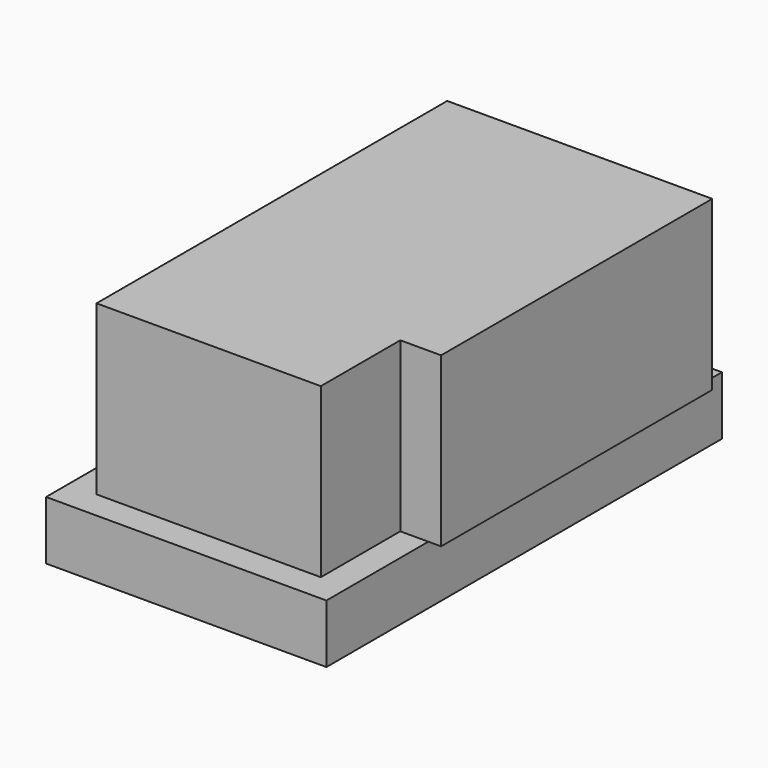
from build123d import *

# Parameters (mm, degrees)
F1_DEPTH = 419.1
F3_DEPTH = 146.05


with BuildPart() as f1:
    # F0 (on Top) → F1 (new body)
    with BuildSketch(Plane.XY):
        Polygon((0, 1092.2), (0, 0), (558.8, 0), (558.8, 247.65), (660.4, 247.65), (660.4, 1092.2), (558.8, 1092.2), align=None)
    extrude(amount=F1_DEPTH)

    # F2 (on Top) → F3 (join)
    with BuildSketch(Plane.XY):
        Polygon((628.65, 1162.05), (-69.85, 1162.05), (-69.85, -69.85), (628.65, -69.85), (628.65, 133.35), (628.65, 958.85), align=None)
    extrude(amount=-F3_DEPTH)


solid = f1.part
